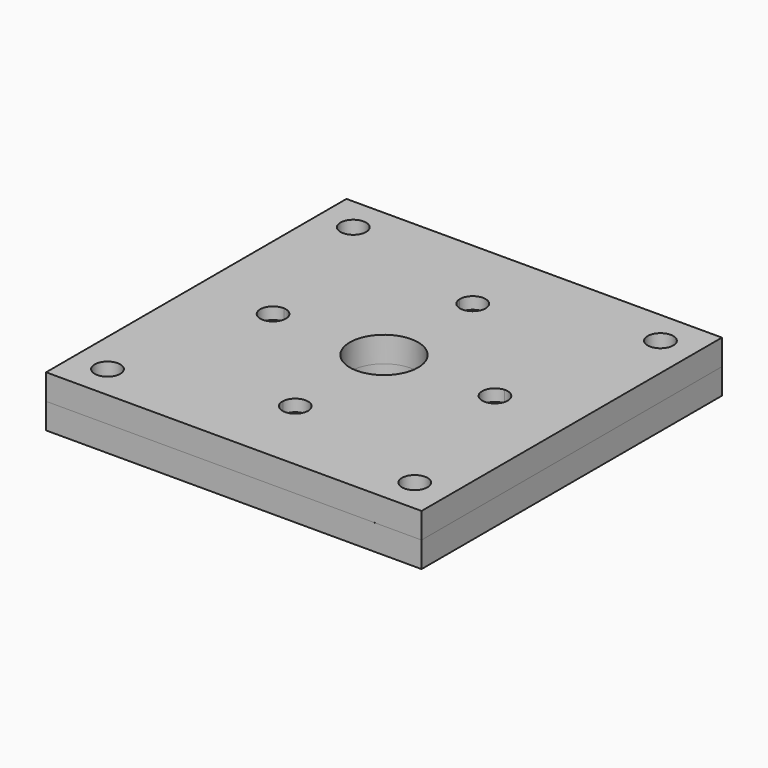
from build123d import *

# Parameters (mm, degrees)
F0_W     = 279.4
F0_H     = 279.4
F0_R     = 9.525
F0_R_2   = 118.11
F0_R_3   = 25.4
F1_DEPTH = 19.05
F2_SIZE  = 10.16
F3_W     = 279.4
F3_H     = 279.4
F3_R     = 9.525
F3_R_2   = 25.4
F4_DEPTH = 19.05
F5_SIZE  = 7.62


with BuildPart() as f1:
    # F0 (on Top) → F1 (new body)
    with BuildSketch(Plane.XY):
        Rectangle(F0_W, F0_H)
        with Locations((-114.3, -114.3)):
            Circle(F0_R, mode=Mode.SUBTRACT)
        with Locations((114.3, -114.3)):
            Circle(F0_R, mode=Mode.SUBTRACT)
        with Locations((-114.3, 114.3)):
            Circle(F0_R, mode=Mode.SUBTRACT)
        Circle(F0_R_2, mode=Mode.SUBTRACT)
        with Locations((114.3, 114.3)):
            Circle(F0_R, mode=Mode.SUBTRACT)
        Circle(F0_R_2)
        with BuildLine():
            ThreePointArc((9.509135, 82.000481), (58.371665, 58.371665), (82.000481, 9.509135))
            ThreePointArc((82.000481, 9.509135), (89.088022, 6.926752), (92.075, 0))
            ThreePointArc((92.075, 0), (89.088022, -6.926752), (82.000481, -9.509135))
            ThreePointArc((82.000481, -9.509135), (58.371665, -58.371665), (9.509135, -82.000481))
            ThreePointArc((9.509135, -82.000481), (9.521033, -82.275126), (9.525, -82.55))
            ThreePointArc((9.525, -82.55), (-0.274874, -92.071033), (-9.509135, -82.000481))
            ThreePointArc((-9.509135, -82.000481), (-58.371665, -58.371665), (-82.000481, -9.509135))
            ThreePointArc((-82.000481, -9.509135), (-92.075, 0), (-82.000481, 9.509135))
            ThreePointArc((-82.000481, 9.509135), (-58.371665, 58.371665), (-9.509135, 82.000481))
            ThreePointArc((-9.509135, 82.000481), (-0.274874, 92.071033), (9.525, 82.55))
            ThreePointArc((9.525, 82.55), (9.521033, 82.275126), (9.509135, 82.000481))
        make_face(mode=Mode.SUBTRACT)
        with BuildLine():
            ThreePointArc((82.000481, -9.509135), (73.025, 0), (82.000481, 9.509135))
            ThreePointArc((82.000481, 9.509135), (58.371665, 58.371665), (9.509135, 82.000481))
            ThreePointArc((9.509135, 82.000481), (0, 73.025), (-9.509135, 82.000481))
            ThreePointArc((-9.509135, 82.000481), (-58.371665, 58.371665), (-82.000481, 9.509135))
            ThreePointArc((-82.000481, 9.509135), (-75.623248, 6.538022), (-73.025, 0))
            ThreePointArc((-73.025, 0), (-75.623248, -6.538022), (-82.000481, -9.509135))
            ThreePointArc((-82.000481, -9.509135), (-58.371665, -58.371665), (-9.509135, -82.000481))
            ThreePointArc((-9.509135, -82.000481), (0, -73.025), (9.509135, -82.000481))
            ThreePointArc((9.509135, -82.000481), (58.371665, -58.371665), (82.000481, -9.509135))
        make_face()
        Circle(F0_R_3, mode=Mode.SUBTRACT)
    extrude(amount=F1_DEPTH)

    # F2
    f2_edges = [f1.edges().sort_by_distance(p)[0] for p in [
        (9.509135, -83.099519, 0),
        (83.099519, 9.509135, 0),
        (-9.525, 82.55, 0),
        (-83.099519, -9.509135, 0),
    ]]
    chamfer(f2_edges, length=F2_SIZE)


with BuildPart() as f4:
    # F3 (on Top) → F4 (new body)
    with BuildSketch(Plane.XY):
        Rectangle(F3_W, F3_H)
        with Locations((-114.3, -114.3)):
            Circle(F3_R, mode=Mode.SUBTRACT)
        with Locations((114.3, -114.3)):
            Circle(F3_R, mode=Mode.SUBTRACT)
        with Locations((-114.3, 114.3)):
            Circle(F3_R, mode=Mode.SUBTRACT)
        with BuildLine():
            ThreePointArc((7.924677, 69.399006), (49.391409, 49.391409), (69.399006, 7.924677))
            ThreePointArc((69.399006, 7.924677), (75.300878, 5.769908), (77.7875, 0))
            ThreePointArc((77.7875, 0), (75.300878, -5.769908), (69.399006, -7.924677))
            ThreePointArc((69.399006, -7.924677), (49.391409, -49.391409), (7.924677, -69.399006))
            ThreePointArc((7.924677, -69.399006), (7.934294, -69.624412), (7.9375, -69.85))
            ThreePointArc((7.9375, -69.85), (-0.225588, -77.784294), (-7.924677, -69.399006))
            ThreePointArc((-7.924677, -69.399006), (-49.391409, -49.391409), (-69.399006, -7.924677))
            ThreePointArc((-69.399006, -7.924677), (-77.7875, 0), (-69.399006, 7.924677))
            ThreePointArc((-69.399006, 7.924677), (-49.391409, 49.391409), (-7.924677, 69.399006))
            ThreePointArc((-7.924677, 69.399006), (-0.225588, 77.784294), (7.9375, 69.85))
            ThreePointArc((7.9375, 69.85), (7.934294, 69.624412), (7.924677, 69.399006))
        make_face(mode=Mode.SUBTRACT)
        with Locations((114.3, 114.3)):
            Circle(F3_R, mode=Mode.SUBTRACT)
        with BuildLine():
            ThreePointArc((69.399006, -7.924677), (61.9125, 0), (69.399006, 7.924677))
            ThreePointArc((69.399006, 7.924677), (49.391409, 49.391409), (7.924677, 69.399006))
            ThreePointArc((7.924677, 69.399006), (0, 61.9125), (-7.924677, 69.399006))
            ThreePointArc((-7.924677, 69.399006), (-49.391409, 49.391409), (-69.399006, 7.924677))
            ThreePointArc((-69.399006, 7.924677), (-64.080092, 5.450878), (-61.9125, 0))
            ThreePointArc((-61.9125, 0), (-64.080092, -5.450878), (-69.399006, -7.924677))
            ThreePointArc((-69.399006, -7.924677), (-49.391409, -49.391409), (-7.924677, -69.399006))
            ThreePointArc((-7.924677, -69.399006), (0, -61.9125), (7.924677, -69.399006))
            ThreePointArc((7.924677, -69.399006), (49.391409, -49.391409), (69.399006, -7.924677))
        make_face()
        Circle(F3_R_2, mode=Mode.SUBTRACT)
    extrude(amount=-F4_DEPTH)

    # F5
    f5_edges = [f4.edges().sort_by_distance(p)[0] for p in [
        (-70.300994, -7.924677, 0),
        (-7.9375, 69.85, 0),
        (70.300994, 7.924677, 0),
        (7.924677, -70.300994, 0),
    ]]
    chamfer(f5_edges, length=F5_SIZE)


solid = Compound([f1.part, f4.part])
